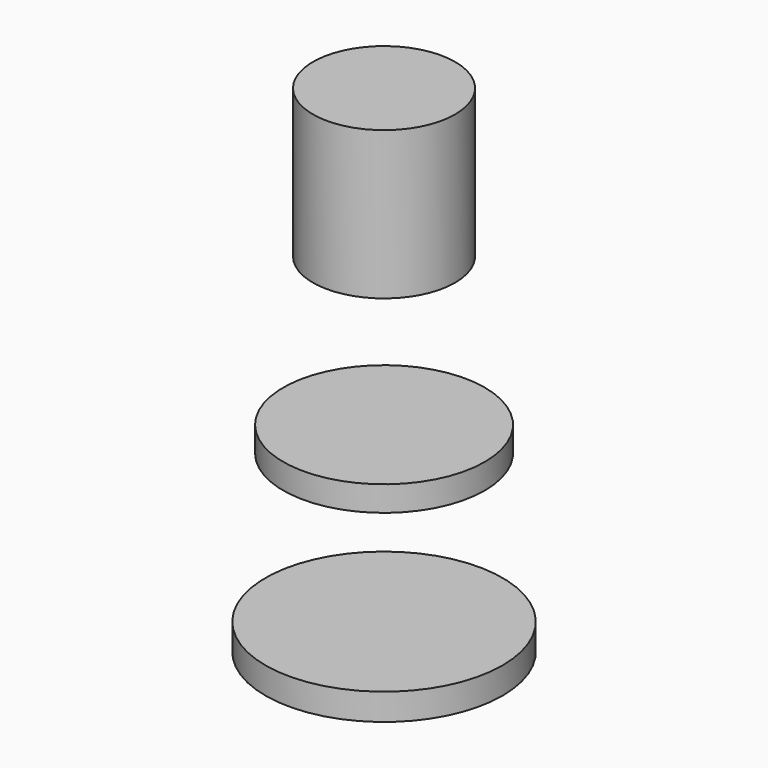
from build123d import *

# Parameters (mm, degrees)
F0_R     = 20
F1_DEPTH = 4.5
F3_R     = 17
F4_DEPTH = 4.25
F6_R     = 12
F7_DEPTH = 25


with BuildPart() as f1:
    # F0 (on Top) → F1 (new body)
    with BuildSketch(Plane.XY):
        Circle(F0_R)
    extrude(amount=F1_DEPTH)


with BuildPart() as f4:
    # F3 (on offset) → F4 (new body)
    with BuildSketch(Plane.XY.offset(29.5)):
        Circle(F3_R)
    extrude(amount=F4_DEPTH)


with BuildPart() as f7:
    # F6 (on offset) → F7 (new body)
    with BuildSketch(Plane.XY.offset(58.75)):
        Circle(F6_R)
    extrude(amount=F7_DEPTH)


solid = Compound([f1.part, f4.part, f7.part])
